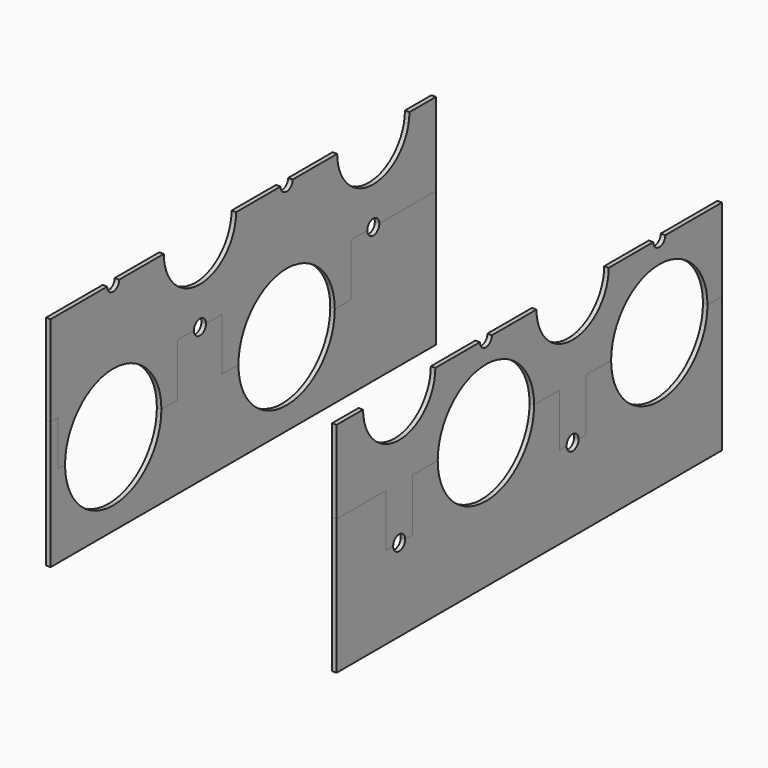
from build123d import *

# Parameters (mm, degrees)
F1_DEPTH = 3
F2_DEPTH = 3
F5_DEPTH = 3
F6_DEPTH = 3


with BuildPart() as f1:
    # F0 (on Right) → F1 (new body)
    with BuildSketch(Plane.YZ):
        with BuildLine():
            Line((-160, -42.5), (160, -42.5))
            Line((160, -42.5), (160, 47.5))
            Line((160, 47.5), (113, 47.5))
            ThreePointArc((113, 47.5), (108, 42.5), (103, 47.5))
            Line((103, 47.5), (89.5, 47.5))
            Line((89.5, 47.5), (89.5, 12.5))
            Line((89.5, 12.5), (76, 12.5))
            ThreePointArc((76, 12.5), (36, -27.5), (-4, 12.5))
            Line((-4, 12.5), (-17.5, 12.5))
            Line((-17.5, 12.5), (-17.5, 47.5))
            Line((-17.5, 47.5), (-31, 47.5))
            ThreePointArc((-31, 47.5), (-36, 42.5), (-41, 47.5))
            Line((-41, 47.5), (-54.5, 47.5))
            Line((-54.5, 47.5), (-54.5, 12.5))
            Line((-54.5, 12.5), (-68, 12.5))
            ThreePointArc((-68, 12.5), (-108, -27.5), (-148, 12.5))
            Line((-148, 12.5), (-154, 12.5))
            Line((-154, 12.5), (-154, 42.5))
            Line((-154, 42.5), (-160, 42.5))
            Line((-160, 42.5), (-160, -42.5))
        make_face()
    extrude(amount=F1_DEPTH)


with BuildPart() as f2:
    # F0 (on Right) → F2 (new body)
    with BuildSketch(Plane.YZ):
        with BuildLine():
            Line((113, 47.5), (160, 47.5))
            Line((160, 47.5), (160, 102.5))
            Line((160, 102.5), (138, 102.5))
            ThreePointArc((138, 102.5), (108, 72.5), (78, 102.5))
            Line((78, 102.5), (41, 102.5))
            ThreePointArc((41, 102.5), (36, 97.5), (31, 102.5))
            Line((31, 102.5), (-6, 102.5))
            ThreePointArc((-6, 102.5), (-36, 72.5), (-66, 102.5))
            Line((-66, 102.5), (-103, 102.5))
            ThreePointArc((-103, 102.5), (-108, 97.5), (-113, 102.5))
            Line((-113, 102.5), (-160, 102.5))
            Line((-160, 102.5), (-160, 42.5))
            Line((-160, 42.5), (-154, 42.5))
            Line((-154, 42.5), (-154, 12.5))
            Line((-154, 12.5), (-148, 12.5))
            ThreePointArc((-148, 12.5), (-108, 52.5), (-68, 12.5))
            Line((-68, 12.5), (-54.5, 12.5))
            Line((-54.5, 12.5), (-54.5, 47.5))
            Line((-54.5, 47.5), (-41, 47.5))
            ThreePointArc((-41, 47.5), (-36, 52.5), (-31, 47.5))
            Line((-31, 47.5), (-17.5, 47.5))
            Line((-17.5, 47.5), (-17.5, 12.5))
            Line((-17.5, 12.5), (-4, 12.5))
            ThreePointArc((-4, 12.5), (36, 52.5), (76, 12.5))
            Line((76, 12.5), (89.5, 12.5))
            Line((89.5, 12.5), (89.5, 47.5))
            Line((89.5, 47.5), (103, 47.5))
            ThreePointArc((103, 47.5), (108, 52.5), (113, 47.5))
        make_face()
    extrude(amount=F2_DEPTH)


with BuildPart() as f5:
    # F4 (on offset) → F5 (new body)
    with BuildSketch(Plane.YZ.offset(190)):
        with BuildLine():
            Line((-159.999996, -42.499997), (160.000004, -42.499997))
            Line((160.000004, -42.499997), (160.000004, 47.500003))
            Line((160.000004, 47.500003), (148.000004, 47.500003))
            ThreePointArc((148.000004, 47.500003), (108.000004, 7.500003), (68.000004, 47.500003))
            Line((68.000004, 47.500003), (47.000004, 47.500003))
            Line((47.000004, 47.500003), (47.000004, 12.500003))
            Line((47.000004, 12.500003), (41.000004, 12.500003))
            ThreePointArc((41.000004, 12.500003), (36.000004, 7.500003), (31.000004, 12.500003))
            Line((31.000004, 12.500003), (25.000004, 12.500003))
            Line((25.000004, 12.500003), (25.000004, 47.500003))
            Line((25.000004, 47.500003), (4.000004, 47.500003))
            ThreePointArc((4.000004, 47.500003), (-35.999996, 7.500003), (-75.999996, 47.500003))
            Line((-75.999996, 47.500003), (-96.999996, 47.500003))
            Line((-96.999996, 47.500003), (-96.999996, 12.500003))
            Line((-96.999996, 12.500003), (-102.999996, 12.500003))
            ThreePointArc((-102.999996, 12.500003), (-107.999996, 7.500003), (-112.999996, 12.500003))
            Line((-112.999996, 12.500003), (-118.999996, 12.500003))
            Line((-118.999996, 12.500003), (-118.999996, 47.500003))
            Line((-118.999996, 47.500003), (-159.999996, 47.500003))
            Line((-159.999996, 47.500003), (-159.999996, -42.499997))
        make_face()
    extrude(amount=F5_DEPTH)


with BuildPart() as f6:
    # F4 (on offset) → F6 (new body)
    with BuildSketch(Plane.YZ.offset(190)):
        with BuildLine():
            Line((148.000004, 47.500003), (160.000004, 47.500003))
            Line((160.000004, 47.500003), (160.000004, 102.500003))
            Line((160.000004, 102.500003), (113.000004, 102.500003))
            ThreePointArc((113.000004, 102.500003), (108.000004, 97.500003), (103.000004, 102.500003))
            Line((103.000004, 102.500003), (66.000004, 102.500003))
            ThreePointArc((66.000004, 102.500003), (36.000004, 72.500003), (6.000004, 102.500003))
            Line((6.000004, 102.500003), (-30.999996, 102.500003))
            ThreePointArc((-30.999996, 102.500003), (-35.999996, 97.500003), (-40.999996, 102.500003))
            Line((-40.999996, 102.500003), (-77.999996, 102.500003))
            ThreePointArc((-77.999996, 102.500003), (-107.999996, 72.500003), (-137.999996, 102.500003))
            Line((-137.999996, 102.500003), (-159.999996, 102.500003))
            Line((-159.999996, 102.500003), (-159.999996, 47.500003))
            Line((-159.999996, 47.500003), (-118.999996, 47.500003))
            Line((-118.999996, 47.500003), (-118.999996, 12.500003))
            Line((-118.999996, 12.500003), (-112.999996, 12.500003))
            ThreePointArc((-112.999996, 12.500003), (-107.999996, 17.500003), (-102.999996, 12.500003))
            Line((-102.999996, 12.500003), (-96.999996, 12.500003))
            Line((-96.999996, 12.500003), (-96.999996, 47.500003))
            Line((-96.999996, 47.500003), (-75.999996, 47.500003))
            ThreePointArc((-75.999996, 47.500003), (-35.999996, 87.500003), (4.000004, 47.500003))
            Line((4.000004, 47.500003), (25.000004, 47.500003))
            Line((25.000004, 47.500003), (25.000004, 12.500003))
            Line((25.000004, 12.500003), (31.000004, 12.500003))
            ThreePointArc((31.000004, 12.500003), (36.000004, 17.500003), (41.000004, 12.500003))
            Line((41.000004, 12.500003), (47.000004, 12.500003))
            Line((47.000004, 12.500003), (47.000004, 47.500003))
            Line((47.000004, 47.500003), (68.000004, 47.500003))
            ThreePointArc((68.000004, 47.500003), (108.000004, 87.500003), (148.000004, 47.500003))
        make_face()
    extrude(amount=F6_DEPTH)


solid = Compound([f1.part, f2.part, f5.part, f6.part])
